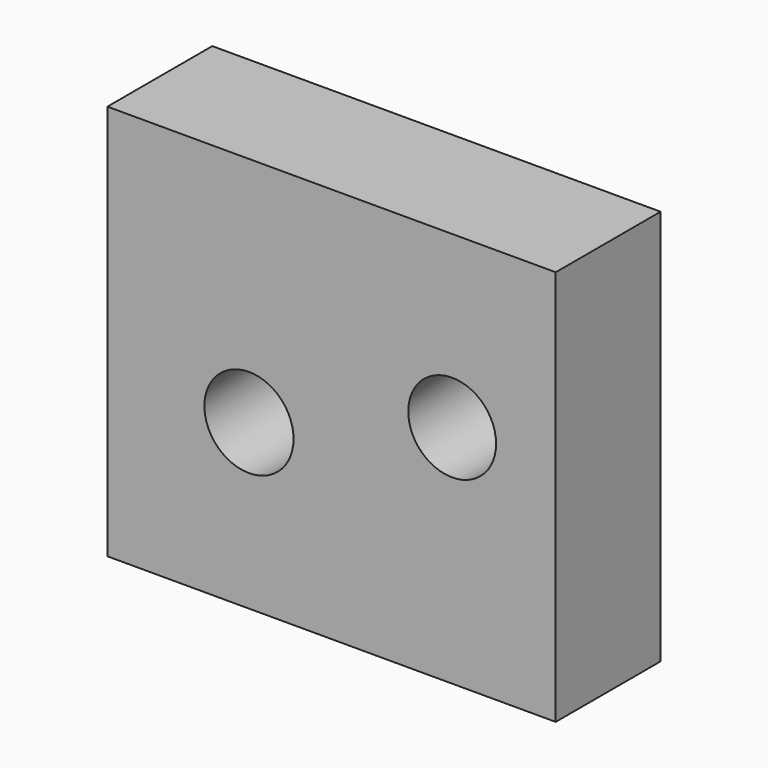
from build123d import *

# Parameters (mm, degrees)
F0_W     = 17.1
F0_H     = 15.1
F1_DEPTH = 5
F2_R     = 1.675
F2_R_2   = 1.7
F3_DEPTH = 25


with BuildPart() as f1:
    # F0 (on Front) → F1 (new body)
    with BuildSketch(Plane.XZ):
        Rectangle(F0_W, F0_H)
    extrude(amount=F1_DEPTH)

    # F2 (on face) → F3 (cut)
    with BuildSketch(Plane.XZ.offset(5)):
        with Locations((4.6, 1.05)):
            Circle(F2_R)
        with Locations((-3.15, -1.3)):
            Circle(F2_R_2)
    extrude(amount=-F3_DEPTH, mode=Mode.SUBTRACT)


solid = f1.part
